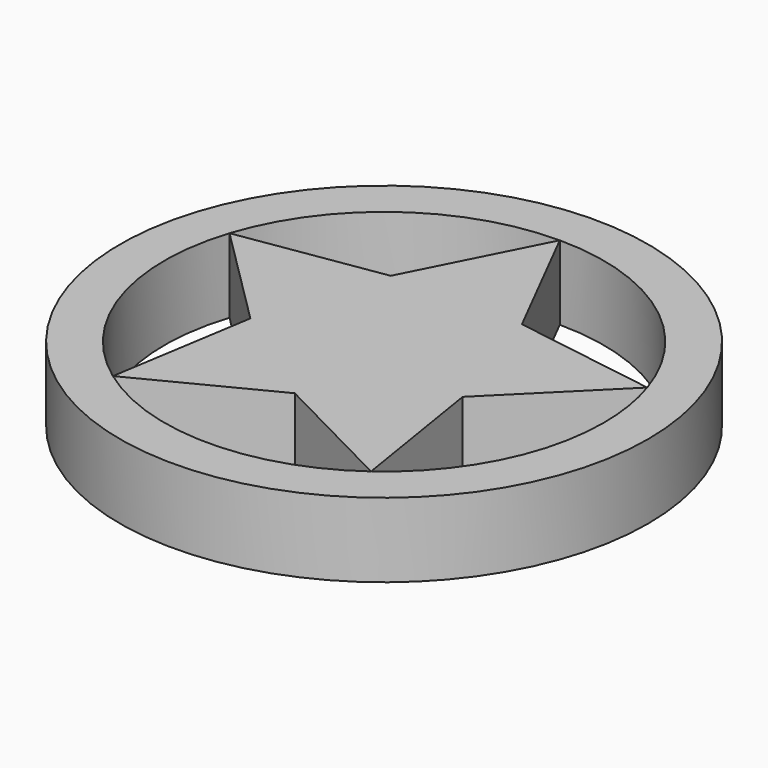
from build123d import *

# Parameters (mm, degrees)
F0_R     = 90.119161
F1_DEPTH = 25.4


with BuildPart() as f1:
    # F0 (on Top) → F1 (new body)
    with BuildSketch(Plane.XY):
        Circle(F0_R)
        with BuildLine():
            ThreePointArc((71.310271, 23.170112), (74.056927, 11.729465), (74.980056, 0))
            ThreePointArc((74.980056, 0), (66.807719, -34.040233), (44.072171, -60.66014))
            ThreePointArc((44.072171, -60.66014), (0, -74.980056), (-44.072171, -60.66014))
            ThreePointArc((-44.072171, -60.66014), (-71.310271, -23.170112), (-71.310271, 23.170112))
            ThreePointArc((-71.310271, 23.170112), (-44.072171, 60.66014), (0, 74.980056))
            ThreePointArc((0, 74.980056), (44.072171, 60.66014), (71.310271, 23.170112))
        make_face(mode=Mode.SUBTRACT)
        Polygon((-36.235253, -11.773547), (0, 0), (-71.310271, 23.170112), align=None)
        Polygon((0, 0), (0, 74.980056), (-22.394618, 30.823547), align=None)
        Polygon((22.394618, 30.823547), (0, 74.980056), (0, 0), align=None)
        Polygon((0, 0), (71.310271, 23.170112), (22.394618, 30.823547), align=None)
        Polygon((36.235253, -11.773547), (71.310271, 23.170112), (0, 0), align=None)
        Polygon((0, 0), (44.072171, -60.66014), (36.235253, -11.773547), align=None)
        Polygon((0, -38.1), (44.072171, -60.66014), (0, 0), align=None)
        Polygon((0, -38.1), (0, 0), (-44.072171, -60.66014), align=None)
        Polygon((-44.072171, -60.66014), (0, 0), (-36.235253, -11.773547), align=None)
        Polygon((-71.310271, 23.170112), (0, 0), (-22.394618, 30.823547), align=None)
    extrude(amount=F1_DEPTH)


solid = f1.part
